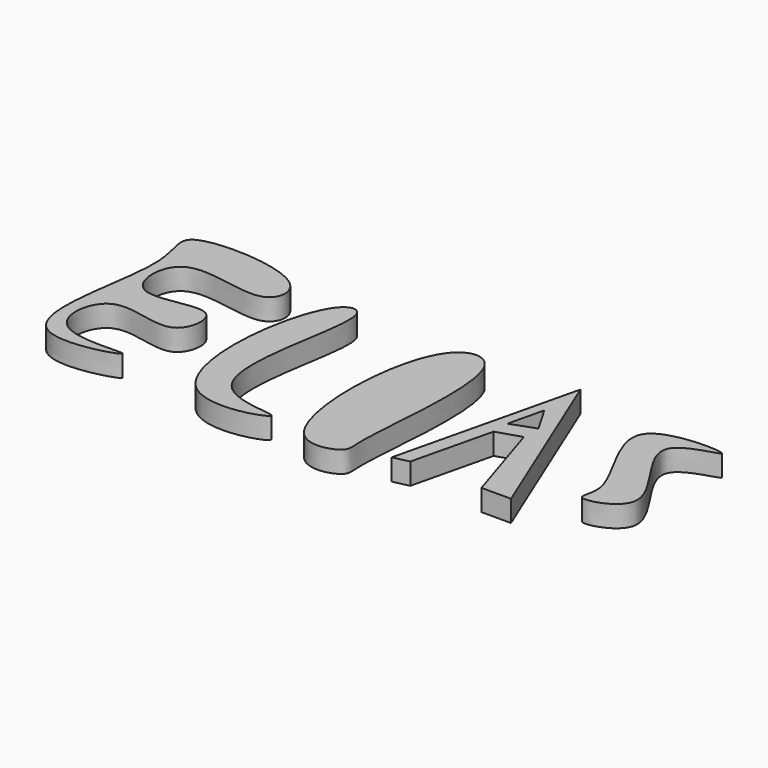
from build123d import *

# Parameters (mm, degrees)
F1_DEPTH = 25.4
F3_DEPTH = 25.4
F5_DEPTH = 25.4
F7_DEPTH = 25.4
F9_DEPTH = 25.4


with BuildPart() as f1:
    # F0 (on Top) → F1 (new body)
    with BuildSketch(Plane.XY):
        with BuildLine():
            add(Edge.make_bspline(
                [(-603.6608815193, 475.8665561676), (-600.8534962118, 423.5751625078), (-657.1791327694, 261.5094265348), (-457.7913719612, 323.6111724225), (-612.611800623, 296.5210674117), (-596.8669132005, 411.72381785), (-499.1918783681, 354.4168713528), (-488.8282898378, 447.2680765945), (-594.5335125019, 393.5970698639), (-597.2605373367, 514.6953415219), (-473.2694131827, 456.9811156615), (-461.9704521818, 537.6648777331), (-637.7183054736, 545.2437477385), (-605.2345823328, 505.1788876524), (-603.6608815193, 475.8665561676)],
                knots=[0, 0, 0, 0, 0.125426772, 0.2136360194, 0.2965701486, 0.3709256547, 0.4541717167, 0.515404653, 0.5982787308, 0.6708251373, 0.7649236513, 0.8222229819, 0.9296910856, 1, 1, 1, 1], degree=3))
        make_face()
    extrude(amount=F1_DEPTH)


with BuildPart() as f3:
    # F2 (on Top) → F3 (new body)
    with BuildSketch(Plane.XY):
        with BuildLine():
            add(Edge.make_bspline(
                [(-416.7569577694, 505.9037804604), (-444.2833017734, 471.5750232581), (-473.5258544412, 245.040467147), (-276.848021555, 310.2867277916), (-450.8298392204, 290.6127244749), (-368.4064079526, 517.2136817043), (-407.5795086035, 517.3491952276), (-416.7569577694, 505.9037804604)],
                knots=[0, 0, 0, 0, 0.2858000381, 0.4704793722, 0.6362823294, 0.904712543, 1, 1, 1, 1], degree=3))
        make_face()
    extrude(amount=F3_DEPTH)


with BuildPart() as f5:
    # F4 (on Top) → F5 (new body)
    with BuildSketch(Plane.XY):
        with BuildLine():
            add(Edge.make_bspline(
                [(-281.4910709858, 496.0917830467), (-311.4254503394, 452.192435006), (-314.0754276511, 259.4312205539), (-225.4685513304, 284.5581749263), (-237.3427307555, 310.9989351914), (-206.3203078659, 521.283285793), (-267.5304646279, 516.5652831025), (-281.4910709858, 496.0917830467)],
                knots=[0, 0, 0, 0, 0.3082132903, 0.4538263306, 0.5618278754, 0.8562574367, 1, 1, 1, 1], degree=3))
        make_face()
    extrude(amount=F5_DEPTH)


with BuildPart() as f7:
    # F6 (on Top) → F7 (new body)
    with BuildSketch(Plane.XY):
        Polygon((-137.1839493513, 519.0710425377), (-188.7622624636, 303.4737408161), (-170.0394292382, 307.59999156), (-147.2872373136, 402.7041330338), (-118.6157688498, 411.7881655693), (-85.6056436896, 307.59999156), (-50.5324117839, 307.59999156), align=None)
        Polygon((-118.6157688498, 433.4510564804), (-147.2872373136, 423.1353998184), (-137.1839493513, 465.3671342769), align=None, mode=Mode.SUBTRACT)
    extrude(amount=F7_DEPTH)


with BuildPart() as f9:
    # F8 (on Top) → F9 (new body)
    with BuildSketch(Plane.XY):
        with BuildLine():
            add(Edge.make_bspline(
                [(45.0960621238, 500.8395314217), (45.8032469352, 497.4826438387), (-49.6406043978, 485.8363666081), (85.5553692105, 369.9704506065), (-15.6925031253, 340.2025576445), (18.3422902236, 380.7939960404), (-94.6282168524, 509.5590322624), (44.2073720664, 505.0579939374), (45.0960621238, 500.8395314217)],
                knots=[0, 0, 0, 0, 0.1447492001, 0.3563864097, 0.497313717, 0.6005546657, 0.8180996355, 1, 1, 1, 1], degree=3))
        make_face()
    extrude(amount=F9_DEPTH)


solid = Compound([f1.part, f3.part, f5.part, f7.part, f9.part])
